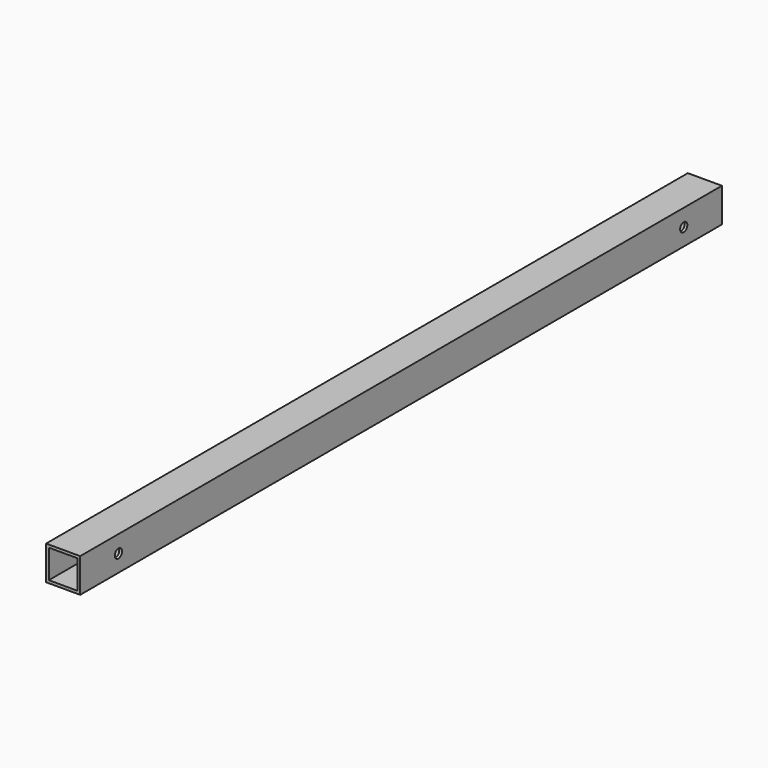
from build123d import *

# Parameters (mm, degrees)
SKETCH_W    = 25
SKETCH_H    = 25
SKETCH_W_2  = 21
SKETCH_H_2  = 21
PAD_DEPTH   = 588
SKETCH001_R = 3.3
HOLE_DEPTH  = 32.501


with BuildPart() as part:
    # Sketch → Pad (new body)
    with BuildSketch(Plane.XZ):
        Rectangle(SKETCH_W, SKETCH_H)
        Rectangle(SKETCH_W_2, SKETCH_H_2, mode=Mode.SUBTRACT)
    extrude(amount=PAD_DEPTH)

    # Sketch001 → Hole (cut, through all)
    with BuildSketch(Plane(origin=(20, 0, 0), x_dir=(0, 0, 1), z_dir=(1, 0, 0))):
        with Locations((0, 35)):
            Circle(SKETCH001_R)
        with Locations((0, 553)):
            Circle(SKETCH001_R)
    extrude(amount=-HOLE_DEPTH, mode=Mode.SUBTRACT)


solid = part.part
